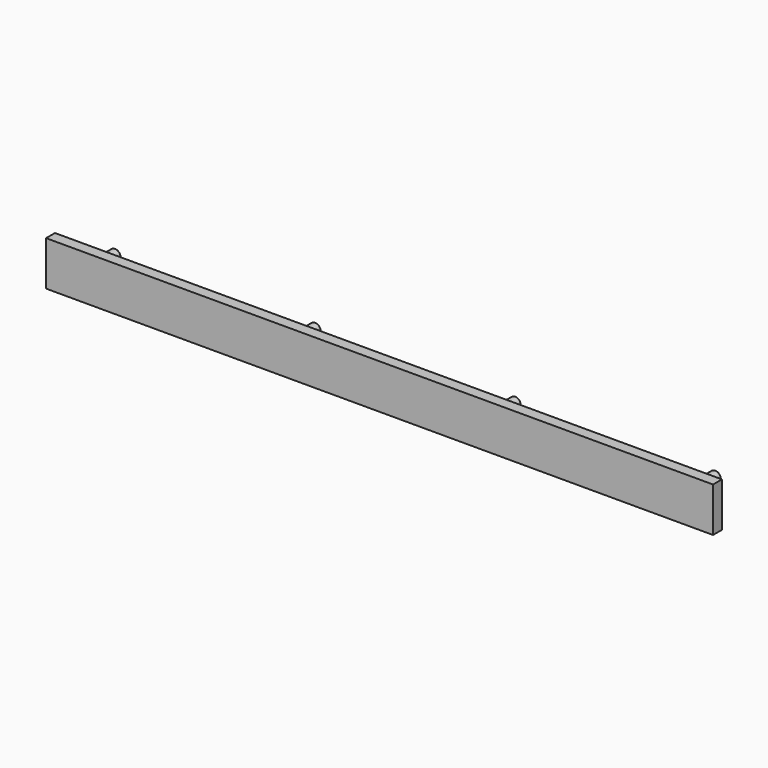
from build123d import *

# Parameters (mm, degrees)
F0_W     = 10
F0_H     = 40
F1_DEPTH = 600
F2_R     = 5
F3_DEPTH = 30


with BuildPart() as f1:
    # F0 (on Right) → F1 (new body)
    with BuildSketch(Plane.YZ):
        with Locations((5, 20)):
            Rectangle(F0_W, F0_H)
    extrude(amount=-F1_DEPTH)

    # F2 (on face) → F3 (join)
    with BuildSketch(Plane(origin=(0, 10, 0), x_dir=(-1, 0, 0), z_dir=(0, 1, 0))):
        with Locations((570, 20)):
            Circle(F2_R)
        with Locations((390, 20)):
            Circle(F2_R)
        with Locations((210, 20)):
            Circle(F2_R)
        with Locations((30, 20)):
            Circle(F2_R)
    extrude(amount=F3_DEPTH)


solid = f1.part
